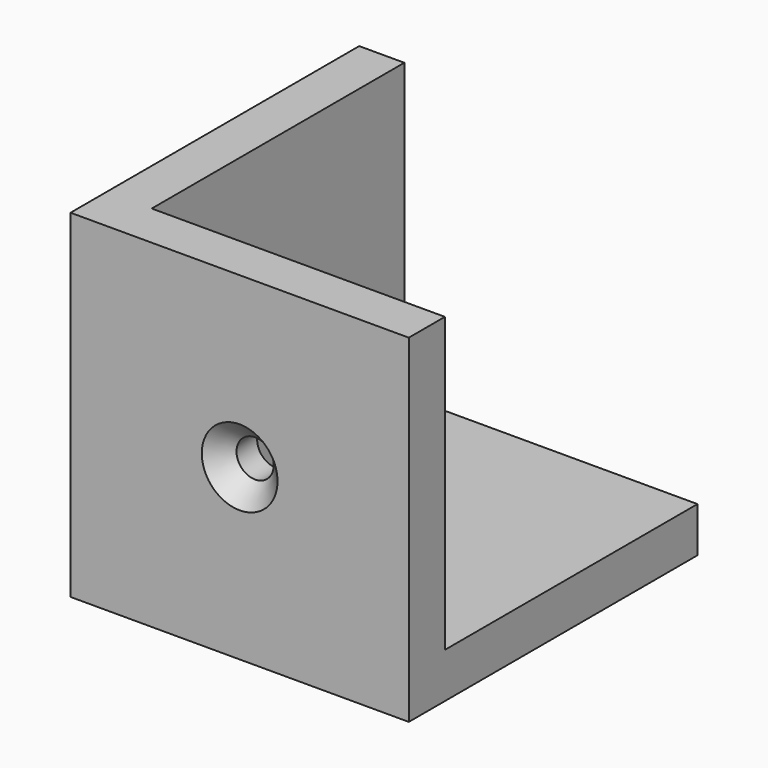
from build123d import *

# Parameters (mm, degrees)
F1_DEPTH       = 28
F2_W           = 30
F2_H           = 30
F3_DEPTH       = 4
F5_D           = 3.3
F5_DEPTH       = 40
F5_CSINK_D     = 6.72
F5_CSINK_ANGLE = 90
F5_TIP         = 0.9914200214
F7_D           = 3.3
F7_DEPTH       = 40
F7_CSINK_D     = 6.72
F7_CSINK_ANGLE = 90
F7_TIP         = 0.9914200214
F9_D           = 3.3
F9_DEPTH       = 40
F9_CSINK_D     = 6.72
F9_CSINK_ANGLE = 90
F9_TIP         = 0.9914200214


with BuildPart() as f1:
    # F0 (on Front) → F1 (new body)
    with BuildSketch(Plane.XZ):
        Polygon((0, 4), (0, 0), (4, 0), (30, 0), (30, 4), (4, 4), (4, 30), (0, 30), align=None)
    extrude(amount=F1_DEPTH)

    # F2 (on face) → F3 (join)
    with BuildSketch(Plane.XZ.offset(28)):
        with Locations((15, 15)):
            Rectangle(F2_W, F2_H)
    extrude(amount=F3_DEPTH)

    # F5
    with Locations(Plane.XZ.offset(32)):
        with Locations((15, 15)):
            CounterSinkHole(F5_D / 2, F5_CSINK_D / 2, depth=F5_DEPTH, counter_sink_angle=F5_CSINK_ANGLE)
            with Locations((0, 0, -(F5_DEPTH + F5_TIP / 2))):  # 118° drill point
                Cone(0, F5_D / 2, F5_TIP, mode=Mode.SUBTRACT)

    # F7
    with Locations(Plane(origin=(0, 0, 0), x_dir=(0, -1, 0), z_dir=(-1, 0, 0))):
        with Locations((16, 15)):
            CounterSinkHole(F7_D / 2, F7_CSINK_D / 2, depth=F7_DEPTH, counter_sink_angle=F7_CSINK_ANGLE)
            with Locations((0, 0, -(F7_DEPTH + F7_TIP / 2))):  # 118° drill point
                Cone(0, F7_D / 2, F7_TIP, mode=Mode.SUBTRACT)

    # F9
    with Locations(Plane(origin=(0, 0, 0), x_dir=(1, 0, 0), z_dir=(0, 0, -1))):
        with Locations((15, 16)):
            CounterSinkHole(F9_D / 2, F9_CSINK_D / 2, depth=F9_DEPTH, counter_sink_angle=F9_CSINK_ANGLE)
            with Locations((0, 0, -(F9_DEPTH + F9_TIP / 2))):  # 118° drill point
                Cone(0, F9_D / 2, F9_TIP, mode=Mode.SUBTRACT)


solid = f1.part
